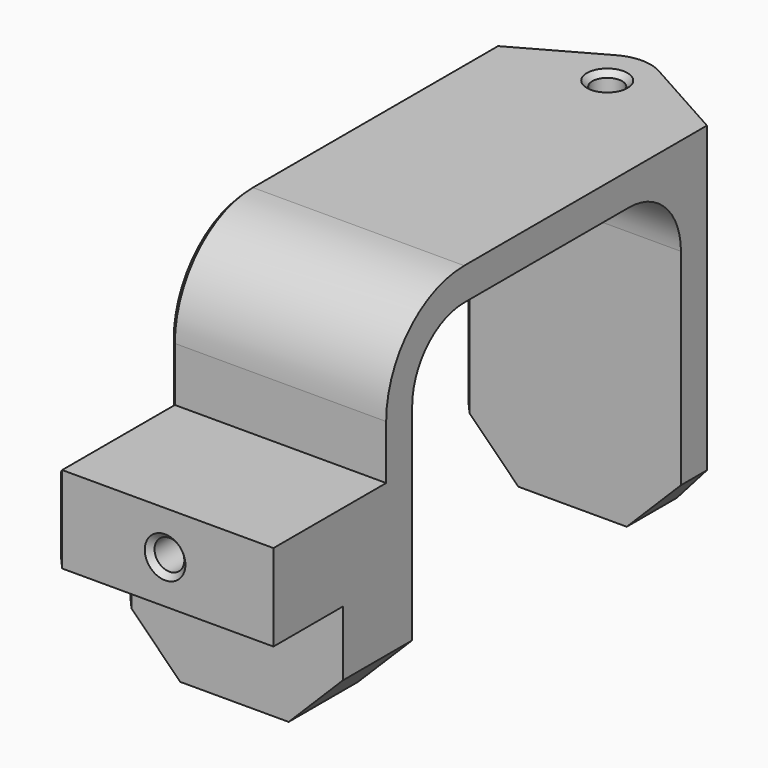
from build123d import *

# Parameters (mm, degrees)
PAD_DEPTH       = 10
SKETCH001_R     = 1.375
POCKET_DEPTH    = 10
PAD001_DEPTH    = 33
SKETCH003_R     = 1.375
POCKET001_DEPTH = 10
SKETCH004_R     = 1.375
POCKET002_DEPTH = 10
FILLET_1_R      = 9
FILLET_2_R      = 6
CHAMFER_SIZE    = 5
CHAMFER001_SIZE = 0.5
CHAMFER002_SIZE = 0.5


with BuildPart() as part:
    # Sketch → Pad (new body, symmetric)
    with BuildSketch(Plane.YZ):
        Polygon((4, 4), (17, 4), (17, 18), (54, 18), (54, -15), (51, -15), (51, 15), (20, 15), (20, -15), (12, -15), (12, -4), (4, -4), align=None)
    extrude(amount=PAD_DEPTH, both=True)

    # Sketch001 → Pocket (cut)
    with BuildSketch(Plane(origin=(0, 4, 0), x_dir=(0, 0, -1), z_dir=(0, -1, 0))):
        Circle(SKETCH001_R)
    extrude(amount=-POCKET_DEPTH, mode=Mode.SUBTRACT)

    # Sketch002 → Pad001 (new body)
    with BuildSketch(Plane(origin=(0, 0, 18), x_dir=(0, -1, 0), z_dir=(0, 0, 1))):
        with BuildLine():
            ThreePointArc((-58.492889, 1.949289), (-59, 0), (-58.492889, -1.949289))
            Line((-54, -10), (-58.492889, -1.949289))
            Line((-54, 10), (-54, -10))
            Line((-58.492889, 1.949289), (-54, 10))
        make_face()
    extrude(amount=-PAD001_DEPTH)

    # Sketch003 → Pocket001 (cut)
    with BuildSketch(Plane(origin=(0, 0, 18), x_dir=(0, -1, 0), z_dir=(0, 0, 1))):
        with Locations((-55, 0)):
            Circle(SKETCH003_R)
    extrude(amount=-POCKET001_DEPTH, mode=Mode.SUBTRACT)

    # Sketch004 → Pocket002 (cut)
    with BuildSketch(Plane.YX.offset(15)):
        with Locations((55, 0)):
            Circle(SKETCH004_R)
        with Locations((16, 0)):
            Circle(SKETCH004_R)
    extrude(amount=-POCKET002_DEPTH, mode=Mode.SUBTRACT)

    # Fillet 1
    fillet_1_edges = [part.edges().sort_by_distance(p)[0] for p in [
        (0, 17, 18),
    ]]
    fillet(fillet_1_edges, radius=FILLET_1_R)

    # Fillet 2
    fillet_2_edges = [part.edges().sort_by_distance(p)[0] for p in [
        (0, 20, 15),
        (0, 51, 15),
    ]]
    fillet(fillet_2_edges, radius=FILLET_2_R)

    # Chamfer
    chamfer_edges = [part.edges().sort_by_distance(p)[0] for p in [
        (-10, 52.5, -15),
        (-10, 16, -15),
        (10, 52.5, -15),
        (10, 16, -15),
    ]]
    chamfer(chamfer_edges, length=CHAMFER_SIZE)

    # Chamfer001
    chamfer001_edges = [part.edges().sort_by_distance(p)[0] for p in [
        (0, 56.375, 18),
        (0, 4, 1.375),
        (0, 53.625, -15),
        (0, 14.625, -15),
    ]]
    chamfer(chamfer001_edges, length=CHAMFER001_SIZE)

    # Chamfer002
    chamfer002_edges = [part.edges().sort_by_distance(p)[0] for p in [
        (-10, 40, 18),
        (-10, 51, -0.5),
        (-10, 19.636039, 15.363961),
        (-10, 49.242641, 13.242641),
        (-10, 17, 6.5),
        (-10, 35.5, 15),
        (-10, 10.5, 4),
        (-10, 21.757359, 13.242641),
        (-10, 4, 0),
        (-10, 20, -0.5),
        (-10, 8, -4),
        (-10, 12, -7),
    ]]
    chamfer(chamfer002_edges, length=CHAMFER002_SIZE)


solid = part.part
